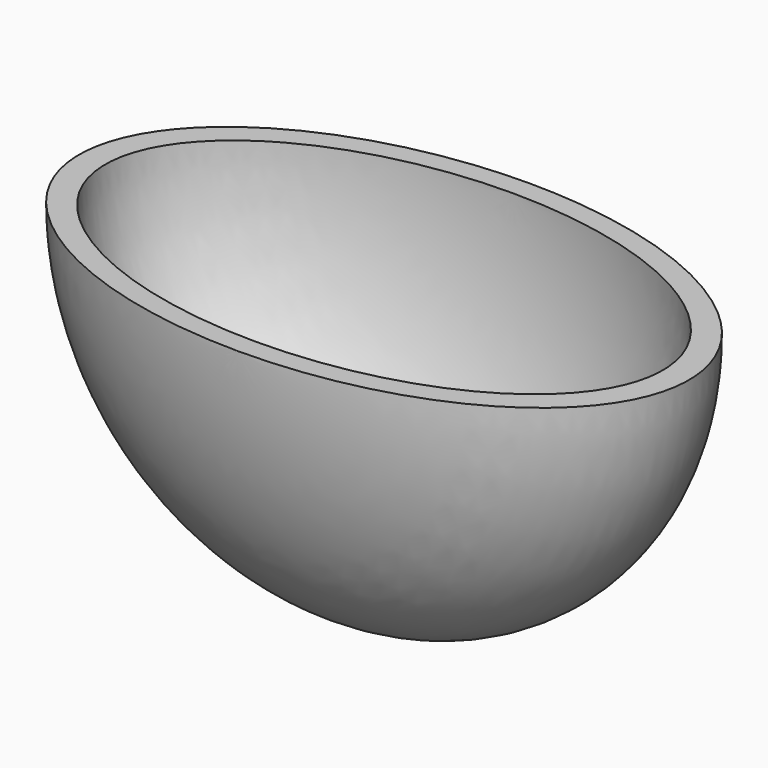
from build123d import *

# Parameters (mm, degrees)
F1_ANGLE = 180
F3_ANGLE = 180


with BuildPart() as f1:
    # F0 (on Top) → F1 (revolve)
    with BuildSketch(Plane.XY):
        with BuildLine():
            Line((-62.1967915217, 25.3134039056), (-62.1967915217, -14.0311960944))
            add(Edge.make_bspline(
                [(-62.1967915217, -14.0311960944), (-29.2180259302, -14.0311960944), (-29.2180259302, 5.6411039056), (-29.2180259302, 25.3134039056), (-62.1967915217, 25.3134039056)],
                knots=[4.7123889804, 4.7123889804, 4.7123889804, 6.2831853072, 6.2831853072, 7.853981634, 7.853981634, 7.853981634], degree=2, weights=[1, 0.7071067812, 1, 0.7071067812, 1]))
        make_face()
    revolve(axis=Axis((-62.1967915217, 5.6411039056, 0), (0, 1, 0)), revolution_arc=F1_ANGLE)

    # F2 (on face) → F3 (revolve, cut)
    with BuildSketch(Plane.XY):
        with BuildLine():
            Line((-62.1967915217, 23.0274039056), (-62.1967915217, -11.7451960944))
            add(Edge.make_bspline(
                [(-62.1967915217, -11.7451960944), (-32.0584103465, -11.7451960944), (-32.0584103465, 5.6411039056), (-32.0584103465, 23.0274039056), (-62.1967915217, 23.0274039056)],
                knots=[4.7123889804, 4.7123889804, 4.7123889804, 6.2831853072, 6.2831853072, 7.853981634, 7.853981634, 7.853981634], degree=2, weights=[1, 0.7071067812, 1, 0.7071067812, 1]))
        make_face()
    revolve(axis=Axis((-62.1967915217, 5.6411039056, 0), (0, 1, 0)), revolution_arc=F3_ANGLE, mode=Mode.SUBTRACT)


solid = f1.part
